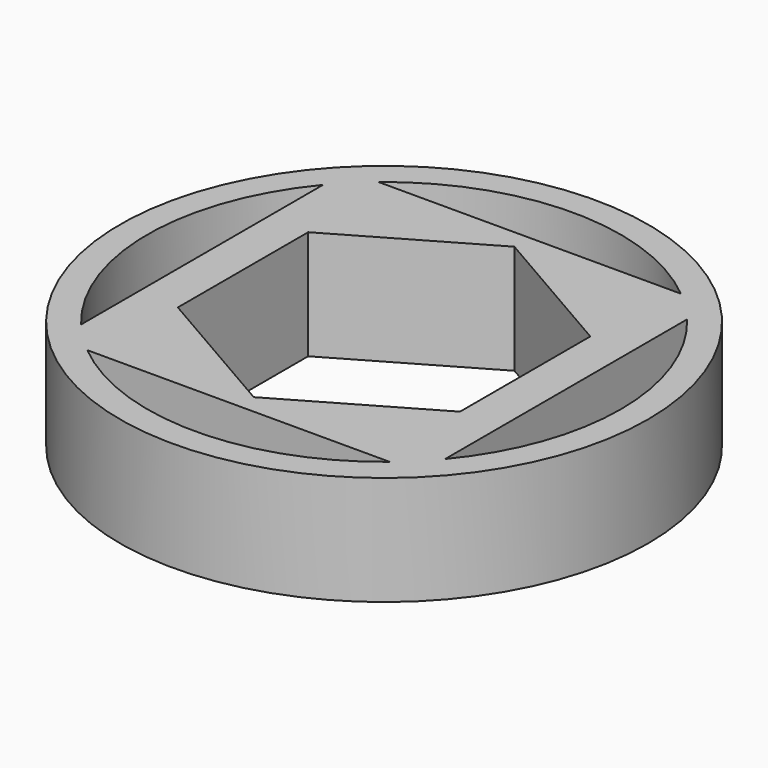
from build123d import *

# Parameters (mm, degrees)
F0_R     = 7.25
F1_DEPTH = 3


with BuildPart() as f1:
    # F0 (on Top) → F1 (new body)
    with BuildSketch(Plane.XY):
        Circle(F0_R)
        with BuildLine():
            Line((4.153312, 5), (5, 5))
            Line((5, 5), (5, 4.153312))
            ThreePointArc((5, 4.153312), (6.11351, 2.20794), (6.5, 0))
            ThreePointArc((6.5, 0), (6.11351, -2.20794), (5, -4.153312))
            Line((5, -4.153312), (5, -5))
            Line((5, -5), (4.153312, -5))
            ThreePointArc((4.153312, -5), (0, -6.5), (-4.153312, -5))
            Line((-4.153312, -5), (-5, -5))
            Line((-5, -5), (-5, -4.153312))
            ThreePointArc((-5, -4.153312), (-6.5, 0), (-5, 4.153312))
            Line((-5, 4.153312), (-5, 5))
            Line((-5, 5), (-4.153312, 5))
            ThreePointArc((-4.153312, 5), (0, 6.5), (4.153312, 5))
        make_face(mode=Mode.SUBTRACT)
        with BuildLine():
            ThreePointArc((5, 4.153312), (4.596194, 4.596194), (4.153312, 5))
            Line((4.153312, 5), (-4.153312, 5))
            ThreePointArc((-4.153312, 5), (-4.596194, 4.596194), (-5, 4.153312))
            Line((-5, 4.153312), (-5, -4.153312))
            ThreePointArc((-5, -4.153312), (-4.596194, -4.596194), (-4.153312, -5))
            Line((-4.153312, -5), (4.153312, -5))
            ThreePointArc((4.153312, -5), (4.596194, -4.596194), (5, -4.153312))
            Line((5, -4.153312), (5, 4.153312))
        make_face()
        Polygon((0, 4.474465), (3.875, 2.237232), (3.875, -2.237232), (0, -4.474465), (-3.875, -2.237232), (-3.875, 2.237232), align=None, mode=Mode.SUBTRACT)
        with BuildLine():
            ThreePointArc((-5, 4.153312), (-4.596194, 4.596194), (-4.153312, 5))
            Line((-4.153312, 5), (-5, 5))
            Line((-5, 5), (-5, 4.153312))
        make_face()
        with BuildLine():
            Line((5, 4.153312), (5, 5))
            Line((5, 5), (4.153312, 5))
            ThreePointArc((4.153312, 5), (4.596194, 4.596194), (5, 4.153312))
        make_face()
        with BuildLine():
            Line((5, -5), (5, -4.153312))
            ThreePointArc((5, -4.153312), (4.596194, -4.596194), (4.153312, -5))
            Line((4.153312, -5), (5, -5))
        make_face()
        with BuildLine():
            ThreePointArc((-4.153312, -5), (-4.596194, -4.596194), (-5, -4.153312))
            Line((-5, -4.153312), (-5, -5))
            Line((-5, -5), (-4.153312, -5))
        make_face()
    extrude(amount=F1_DEPTH)


solid = f1.part
